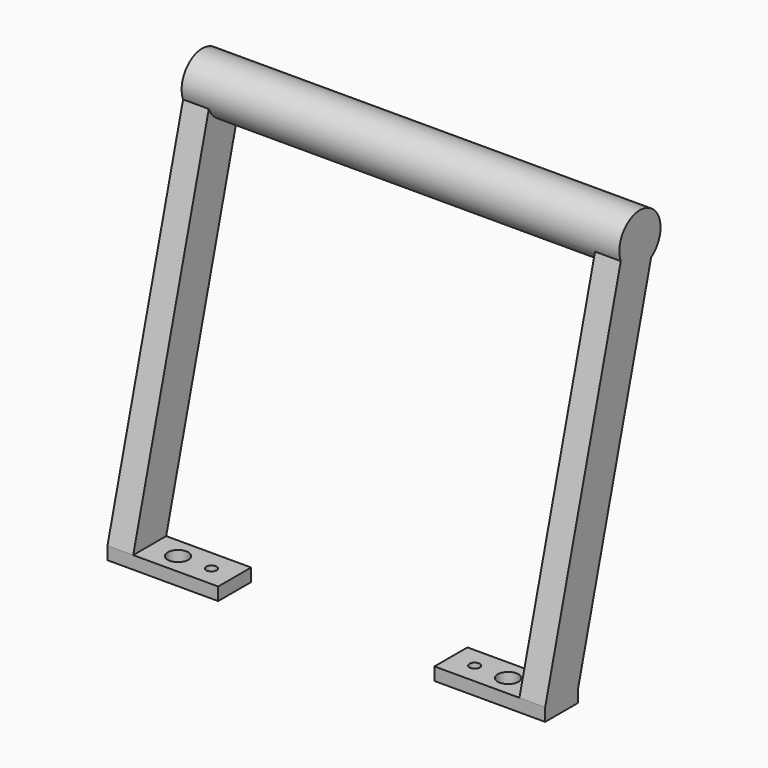
from build123d import *

# Parameters (mm, degrees)
CYLINDER127_R             = 10
CYLINDER127_DEPTH         = 170
EXTRUDE010_DEPTH          = 10
FILLET003_R               = 7.72
FILLET003_ROLL_ANGLE      = 90
FILLET003_PLACEMENT_ANGLE = 90
EXTRUDE009_DEPTH          = 10
FILLET002_R               = 7.72
FILLET002_ROLL_ANGLE      = 90
FILLET002_PLACEMENT_ANGLE = 90
CYLINDER237_R             = 2
CYLINDER237_DEPTH         = 42
CYLINDER033_R             = 4
CYLINDER033_DEPTH         = 32
BOX309_W                  = 43
BOX309_H                  = 16
BOX309_DEPTH              = 5
CYLINDER236_R             = 2
CYLINDER236_DEPTH         = 42
CYLINDER034_R             = 4
CYLINDER034_DEPTH         = 32
BOX310_W                  = 43
BOX310_H                  = 16
BOX310_DEPTH              = 5


with BuildPart() as cylinder127:
    # Cylinder127 → Cylinder127 (new body)
    with BuildSketch(Plane(origin=(-119, 28, 146.3), x_dir=(0, 0, -1), z_dir=(1, 0, 0))):
        Circle(CYLINDER127_R)
    extrude(amount=CYLINDER127_DEPTH)


with BuildPart() as fillet003:
    # Wire005 → Extrude010 (new body)
    with BuildSketch(Plane.XY):
        Polygon((0, 0), (16, 0), (56, 150), (40, 150), align=None)
    extrude(amount=EXTRUDE010_DEPTH)

    # Fillet003
    fillet003_edges = [fillet003.edges().sort_by_distance(p)[0] for p in [
        (56, 150, 5),
        (40, 150, 5),
    ]]
    fillet(fillet003_edges, radius=FILLET003_R)


with BuildPart() as fillet003_1:
    # Fillet003 roll: moved
    add(fillet003.part.rotate(Axis((0, 0, 0), (1, 0, 0)), FILLET003_ROLL_ANGLE))


with BuildPart() as fillet003_2:
    # Fillet003 placement: moved
    add(fillet003_1.part.moved(Location((-119, -18, 5))).rotate(Axis((-119, -18, 5), (0, 0, 1)), FILLET003_PLACEMENT_ANGLE))


with BuildPart() as fusion167:
    # Wire004 → Extrude009 (new body)
    with BuildSketch(Plane.XY):
        Polygon((0, 0), (16, 0), (56, 150), (40, 150), align=None)
    extrude(amount=EXTRUDE009_DEPTH)

    # Fillet002
    fillet002_edges = [fusion167.edges().sort_by_distance(p)[0] for p in [
        (56, 150, 5),
        (40, 150, 5),
    ]]
    fillet(fillet002_edges, radius=FILLET002_R)


with BuildPart() as fusion167_1:
    # Fillet002 roll: moved
    add(fusion167.part.rotate(Axis((0, 0, 0), (1, 0, 0)), FILLET002_ROLL_ANGLE))


with BuildPart() as fusion167_2:
    # Fillet002 placement: moved
    add(fusion167_1.part.moved(Location((41, -18, 5))).rotate(Axis((41, -18, 5), (0, 0, 1)), FILLET002_PLACEMENT_ANGLE))

    # Fusion167: union Cylinder127, Fillet003
    add(cylinder127.part)
    add(fillet003_2.part)


with BuildPart() as cylinder237:
    # Cylinder237 → Cylinder237 (new body)
    with BuildSketch(Plane(origin=(17.2, -10, -5), x_dir=(1, 0, 0), z_dir=(0, 0, 1))):
        Circle(CYLINDER237_R)
    extrude(amount=CYLINDER237_DEPTH)


with BuildPart() as cylinder033:
    # Cylinder033 → Cylinder033 (new body)
    with BuildSketch(Plane(origin=(30.2, -10, 0), x_dir=(1, 0, 0), z_dir=(0, 0, 1))):
        Circle(CYLINDER033_R)
    extrude(amount=CYLINDER033_DEPTH)


with BuildPart() as cut203:
    # Box309 → Box309 (new body)
    with BuildSketch(Plane(origin=(8, -18, 0), x_dir=(1, 0, 0), z_dir=(0, 0, 1))):
        with Locations((21.5, 8)):
            Rectangle(BOX309_W, BOX309_H)
    extrude(amount=BOX309_DEPTH)

    # Cut187: cut Cylinder033
    add(cylinder033.part, mode=Mode.SUBTRACT)

    # Cut203: cut Cylinder237
    add(cylinder237.part, mode=Mode.SUBTRACT)


with BuildPart() as cylinder236:
    # Cylinder236 → Cylinder236 (new body)
    with BuildSketch(Plane(origin=(-85, -10, -5), x_dir=(1, 0, 0), z_dir=(0, 0, 1))):
        Circle(CYLINDER236_R)
    extrude(amount=CYLINDER236_DEPTH)


with BuildPart() as cylinder034:
    # Cylinder034 → Cylinder034 (new body)
    with BuildSketch(Plane(origin=(-98, -10, 0), x_dir=(1, 0, 0), z_dir=(0, 0, 1))):
        Circle(CYLINDER034_R)
    extrude(amount=CYLINDER034_DEPTH)


with BuildPart() as fusion169:
    # Box310 → Box310 (new body)
    with BuildSketch(Plane(origin=(-119, -18, 0), x_dir=(1, 0, 0), z_dir=(0, 0, 1))):
        with Locations((21.5, 8)):
            Rectangle(BOX310_W, BOX310_H)
    extrude(amount=BOX310_DEPTH)

    # Cut183: cut Cylinder034
    add(cylinder034.part, mode=Mode.SUBTRACT)

    # Cut202: cut Cylinder236
    add(cylinder236.part, mode=Mode.SUBTRACT)

    # Fusion169: union Fusion167, Cut203
    add(fusion167_2.part)
    add(cut203.part)


with BuildPart() as fusion169_1:
    # Fusion169 placement: moved
    add(fusion169.part.moved(Location((0, 0, 20.1))))


solid = fusion169_1.part
